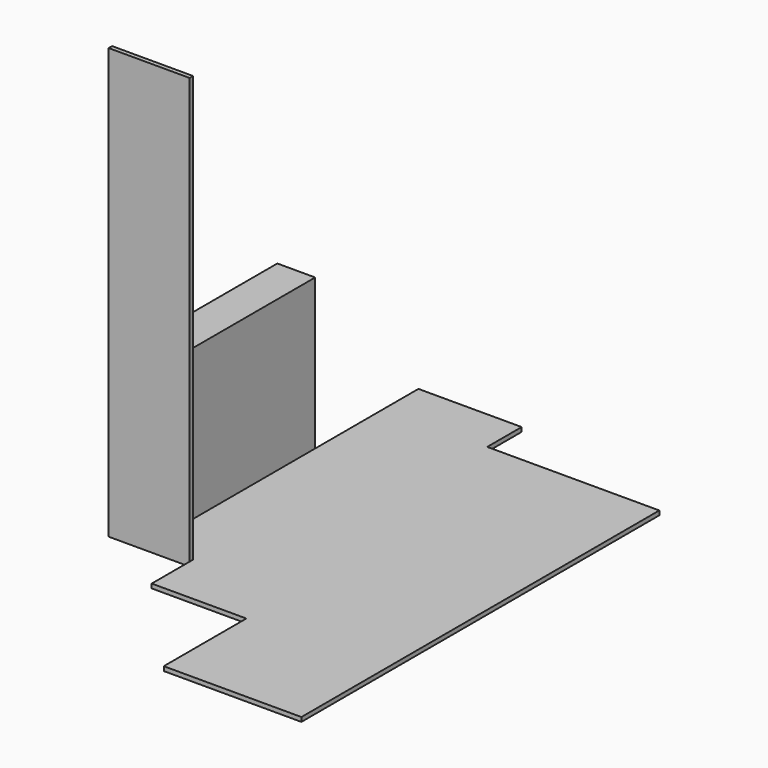
from build123d import *

# Parameters (mm, degrees)
F1_DEPTH = 25
F2_W     = 1200
F2_H     = 875
F3_DEPTH = 70
F4_W     = 1200
F4_H     = 70
F5_DEPTH = 150
F6_W     = 250
F6_H     = 25
F7_DEPTH = 25


with BuildPart() as f1:
    # F0 (on Top) → F1 (new body)
    with BuildSketch(Plane.XY):
        Polygon((0, -2600), (0, 0), (-1000, 0), (-1000, 250), (-1600, 250), (-1600, -1700), (-1350, -1700), (-1350, -2000), (-800, -2000), (-800, -2600), align=None)
    extrude(amount=-F1_DEPTH)


with BuildPart() as f3:
    # F2 (on face) → F3 (new body)
    with BuildSketch(Plane(origin=(-1600, 0, 0), x_dir=(0, -1, 0), z_dir=(-1, 0, 0))):
        with Locations((1100, 437.5)):
            Rectangle(F2_W, F2_H)
    extrude(amount=F3_DEPTH)

    # F4 (on face) → F5 (join)
    with BuildSketch(Plane(origin=(-1670, 0, 0), x_dir=(0, -1, 0), z_dir=(-1, 0, 0))):
        with Locations((1100, 840)):
            Rectangle(F4_W, F4_H)
    extrude(amount=F5_DEPTH)


with BuildPart() as f7:
    # F6 (on face) → F7 (new body)
    with BuildSketch(Plane.XZ.offset(1700)):
        Polygon((-1820, -25), (-1600, -25), (-1600, 0), (-1350, 0), (-1350, 2475), (-1820, 2475), align=None)
        with Locations((-1475, -12.5)):
            Rectangle(F6_W, F6_H)
    extrude(amount=F7_DEPTH)


solid = Compound([f1.part, f3.part, f7.part])
